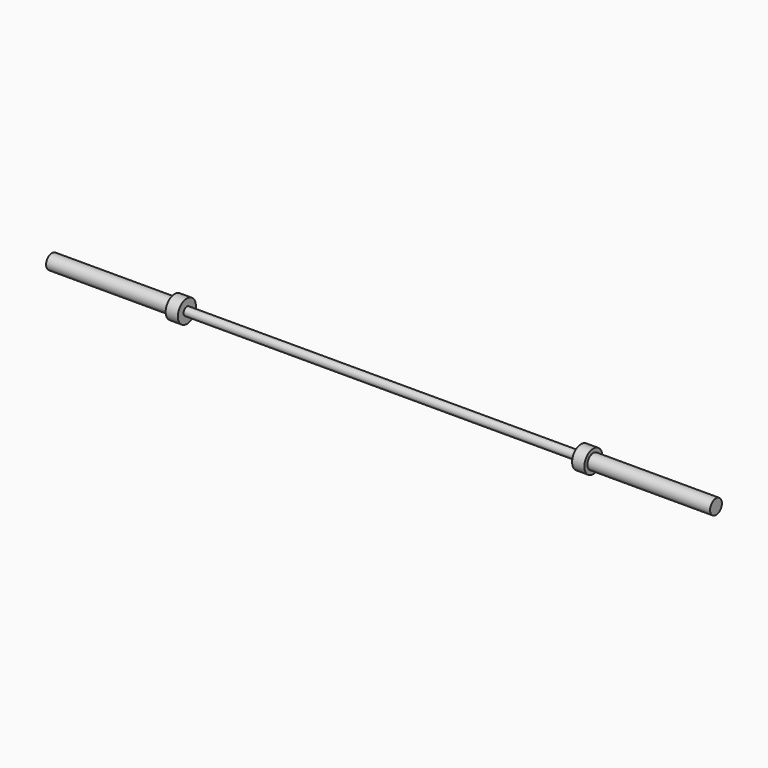
from build123d import *

# Parameters (mm, degrees)
F0_R     = 25
F1_DEPTH = 415
F2_R     = 38.1
F3_DEPTH = 41.275
F4_R     = 14
F5_DEPTH = 1333.5
F6_R     = 38.1
F7_DEPTH = 41.275
F8_R     = 25
F9_DEPTH = 415


with BuildPart() as f1:
    # F0 (on Right) → F1 (new body)
    with BuildSketch(Plane.YZ):
        Circle(F0_R)
    extrude(amount=-F1_DEPTH)



with BuildPart() as f3:
    # F2 (on face) → F3 (new body)
    with BuildSketch(Plane(origin=(-1789.775, 0, 0), x_dir=(0, -1, 0), z_dir=(-1, 0, 0))):
        Circle(F2_R)
    extrude(amount=F3_DEPTH)

    # F4 (on face) → F5 (join)
    with BuildSketch(Plane(origin=(-456.275, 0, 0), x_dir=(0, -1, 0), z_dir=(-1, 0, 0))):
        Circle(F4_R)
    extrude(amount=F5_DEPTH)


with BuildPart() as f1_1:
    add(f1.part)

    add(f3.part)  # F7 merges F3
    # F6 (on face) → F7 (join)
    with BuildSketch(Plane(origin=(-415, 0, 0), x_dir=(0, -1, 0), z_dir=(-1, 0, 0))):
        Circle(F6_R)
    extrude(amount=F7_DEPTH)

    # F8 (on face) → F9 (join)
    with BuildSketch(Plane(origin=(-1831.05, 0, 0), x_dir=(0, -1, 0), z_dir=(-1, 0, 0))):
        Circle(F8_R)
    extrude(amount=F9_DEPTH)


solid = f1_1.part
